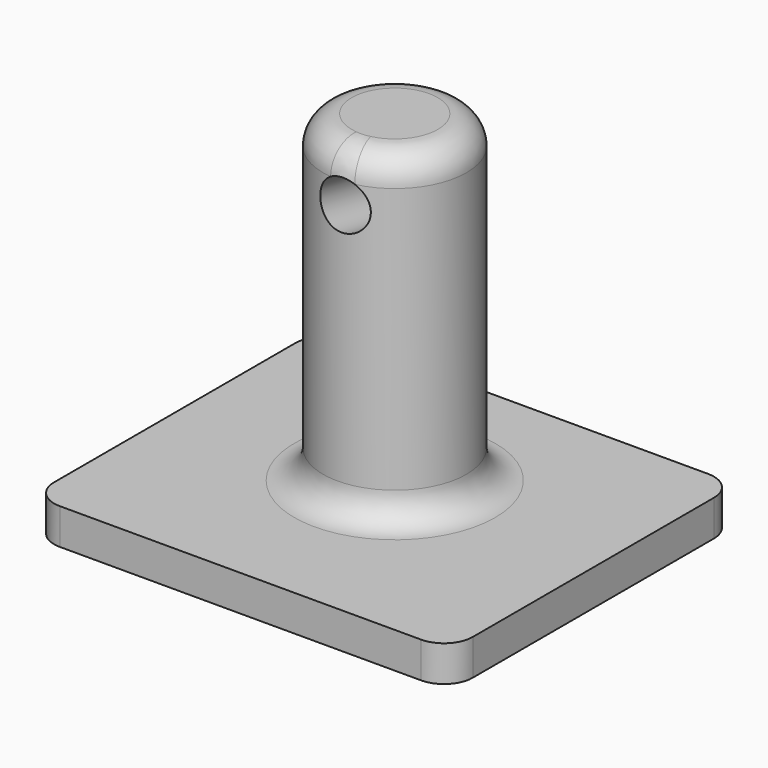
from build123d import *

# Parameters (mm, degrees)
CYLINDER001_R               = 2
CYLINDER001_DEPTH           = 25
CYLINDER001_PLACEMENT_ANGLE = 101.1
BOX_W                       = 35
BOX_H                       = 30
BOX_DEPTH                   = 3
CYLINDER_R                  = 6
CYLINDER_DEPTH              = 30
FILLET_R                    = 2.4
FILLET001_R                 = 2.4


with BuildPart() as cylinder001:
    # Cylinder001 → Cylinder001 (new body)
    with BuildSketch(Plane.XY):
        Circle(CYLINDER001_R)
    extrude(amount=CYLINDER001_DEPTH)


with BuildPart() as cylinder001_1:
    # Cylinder001 placement: moved
    add(cylinder001.part.moved(Location((17.6, 6.769902, 26.562882))).rotate(Axis((17.6, 6.769902, 26.562882), (-1, 0, 0)), CYLINDER001_PLACEMENT_ANGLE))


with BuildPart() as box:
    # Box → Box (new body)
    with BuildSketch(Plane.XY):
        with Locations((17.5, 15)):
            Rectangle(BOX_W, BOX_H)
    extrude(amount=BOX_DEPTH)


with BuildPart() as fillet001:
    # Cylinder → Cylinder (new body)
    with BuildSketch(Plane(origin=(17.2, 16.5, 0), x_dir=(1, 0, 0), z_dir=(0, 0, 1))):
        Circle(CYLINDER_R)
    extrude(amount=CYLINDER_DEPTH)

    # Fusion: union Box
    add(box.part)

    # Cut: cut Cylinder001
    add(cylinder001_1.part, mode=Mode.SUBTRACT)

    # Fillet
    fillet_edges = [fillet001.edges().sort_by_distance(p)[0] for p in [
        (11.2, 16.5, 3),
    ]]
    fillet(fillet_edges, radius=FILLET_R)

    # Fillet001
    fillet001_edges = [fillet001.edges().sort_by_distance(p)[0] for p in [
        (11.2, 16.5, 30),
        (0, 0, 1.5),
        (0, 30, 1.5),
        (35, 30, 1.5),
        (35, 0, 1.5),
    ]]
    fillet(fillet001_edges, radius=FILLET001_R)


solid = fillet001.part
